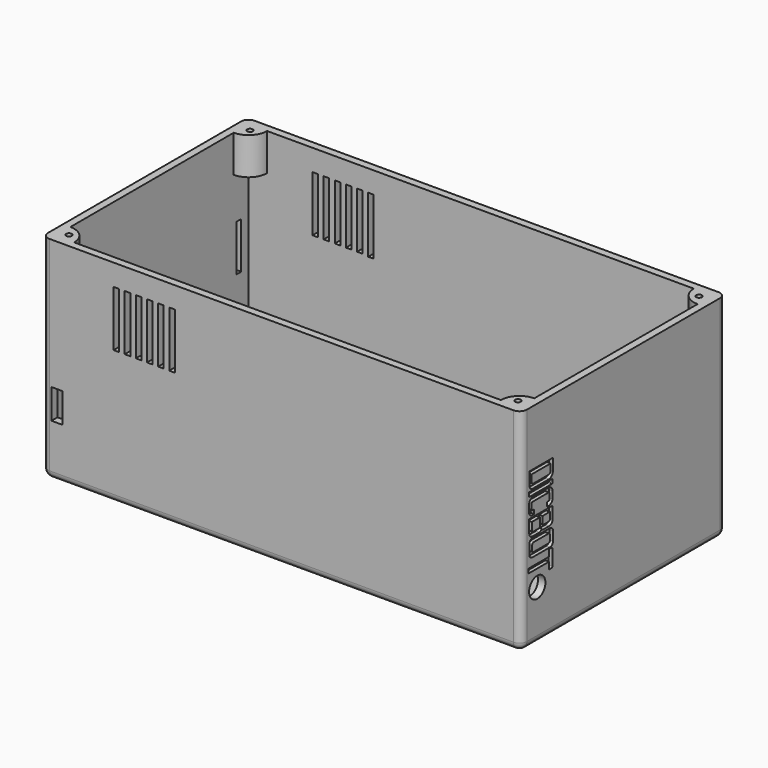
from build123d import *

# Parameters (mm, degrees)
SKETCH_W        = 250
SKETCH_H        = 130
PAD_DEPTH       = 110
THICKNESS_T     = 4
PAD017_DEPTH    = 16
SKETCH022_W     = 162
SKETCH022_H     = 92
POCKET_DEPTH    = 4
SKETCH023_R     = 1.5
PAD018_DEPTH    = 20
SKETCH024_R     = 1.5
POCKET004_DEPTH = 15
POCKET006_DEPTH = 2
SKETCH031_W     = 3
SKETCH031_H     = 30
SKETCH031_H_2   = 30.423321
POCKET008_DEPTH = 5
SKETCH032_W     = 3
SKETCH032_H     = 30
POCKET009_DEPTH = 5
POCKET010_DEPTH = 2
POCKET011_DEPTH = 2
SKETCH040_W     = 3
SKETCH040_H     = 25
POCKET015_DEPTH = 5
SKETCH041_R     = 5.5
POCKET016_DEPTH = 5
SKETCH042_W     = 6
SKETCH042_H     = 16
POCKET017_DEPTH = 4


with BuildPart() as part:
    # Sketch → Pad (new body)
    with BuildSketch(Plane.XY):
        Rectangle(SKETCH_W, SKETCH_H)
    extrude(amount=PAD_DEPTH)

    # Thickness
    thickness_openings = [part.faces().sort_by_distance(p)[0] for p in [
        (0, 0, 110),
    ]]
    offset(amount=THICKNESS_T, openings=thickness_openings)

    # Sketch021 (on Face5 of Thickness) → Pad017 (join)
    with BuildSketch(Plane.XY):
        Polygon((-125, -65), (72.5, -65), (72.5, -49), (67.5, -49), (67.5, -57.7), (-125, -57.7), align=None)
        Polygon((-125, 65), (72.5, 65), (72.5, 49), (67.5, 49), (67.5, 57.7), (-125, 57.7), align=None)
    extrude(amount=PAD017_DEPTH)

    # Sketch022 (on Face33 of Pad017) → Pocket (cut)
    with BuildSketch(Plane(origin=(0, 0, -4), x_dir=(1, 0, 0), z_dir=(0, 0, -1))):
        with Locations((-29.35158, -0.335244)):
            Rectangle(SKETCH022_W, SKETCH022_H)
    extrude(amount=-POCKET_DEPTH, mode=Mode.SUBTRACT)

    # Sketch023 (on Face6 of Pocket) → Pad018 (join)
    with BuildSketch(Plane.XY.offset(110)):
        with BuildLine():
            Line((125, -65), (115, -65))
            ThreePointArc((125, -55), (117.928932, -57.928932), (115, -65))
            Line((125, -65), (125, -55))
        make_face()
        with Locations((121, -61)):
            Circle(SKETCH023_R, mode=Mode.SUBTRACT)
        with BuildLine():
            Line((125, 65), (125, 55))
            ThreePointArc((115, 65), (117.928932, 57.928932), (125, 55))
            Line((125, 65), (115, 65))
        make_face()
        with Locations((121, 61)):
            Circle(SKETCH023_R, mode=Mode.SUBTRACT)
        with BuildLine():
            Line((-125, 65), (-115, 65))
            ThreePointArc((-125, 55), (-117.928932, 57.928932), (-115, 65))
            Line((-125, 65), (-125, 55))
        make_face()
        with Locations((-121, 61)):
            Circle(SKETCH023_R, mode=Mode.SUBTRACT)
        with BuildLine():
            Line((-125, -65), (-115, -65))
            ThreePointArc((-115, -65), (-117.928932, -57.928932), (-125, -55))
            Line((-125, -65), (-125, -55))
        make_face()
        with Locations((-121, -61)):
            Circle(SKETCH023_R, mode=Mode.SUBTRACT)
    extrude(amount=-PAD018_DEPTH)

    # Sketch024 (on Face2 of Pad018) → Pocket004 (cut)
    with BuildSketch(Plane.XY.offset(16)):
        with Locations((-100, 61.5)):
            Circle(SKETCH024_R)
        with Locations((47.5, 61.5)):
            Circle(SKETCH024_R)
        with Locations((-100, -61.5)):
            Circle(SKETCH024_R)
        with Locations((47.5, -61.5)):
            Circle(SKETCH024_R)
    extrude(amount=-POCKET004_DEPTH, mode=Mode.SUBTRACT)

    # Sketch029 (on Face47 of Pocket004) → Pocket006 (cut)
    with BuildSketch(Plane(origin=(0, 0, -4), x_dir=(1, 0, 0), z_dir=(0, 0, -1))):
        Polygon((110.986206, -52.371094), (110.986206, -54.950687), (89.020599, -54.950687), (89.020599, -52.292919), (97.541061, -52.292919), (97.541061, -37.284397), (103.012924, -37.284397), (103.012924, -52.371094), align=None)
        with BuildLine():
            Line((110.388367, -18.675339), (110.388367, -29.703456))
            add(Edge.make_bspline(
                [(110.388367, -29.703456), (110.238205, -32.012863), (106.282608, -32.67458), (104.313, -32.7242)],
                knots=[0, 0, 0, 0, 1, 1, 1, 1], degree=3))
            Line((104.313, -32.7242), (96.4457, -32.7242))
            add(Edge.make_bspline(
                [(96.4457, -32.7242), (94.127472, -32.582211), (92.032043, -31.922974), (90.207809, -29.713581)],
                knots=[0, 0, 0, 0, 1, 1, 1, 1], degree=3))
            Line((90.207809, -29.713581), (90.207809, -18.678934))
            add(Edge.make_bspline(
                [(96.7618, -15.6424), (92.885971, -15.769687), (90.865364, -17.303654), (90.207809, -18.678934)],
                knots=[0, 0, 0, 0, 1, 1, 1, 1], degree=3))
            Line((96.7618, -15.6424), (103.914186, -15.6424))
            add(Edge.make_bspline(
                [(110.388367, -18.675339), (108.822266, -15.913918), (105.375854, -15.970648), (103.914186, -15.6424)],
                knots=[0, 0, 0, 0, 1, 1, 1, 1], degree=3))
        make_face()
        with BuildLine():
            Line((104.117741, -30.550462), (96.798073, -30.550462))
            ThreePointArc((96.798073, -30.550462), (95.737413, -30.111122), (95.298073, -29.050462))
            Line((95.298073, -29.050462), (95.298073, -19.309789))
            ThreePointArc((95.298073, -19.309789), (95.737413, -18.249128), (96.798073, -17.809789))
            Line((96.798073, -17.809789), (103.848498, -17.809789))
            ThreePointArc((103.848498, -17.809789), (104.909158, -18.249128), (105.348498, -19.309789))
            Line((105.348498, -19.309789), (105.348498, -29.319705))
            ThreePointArc((105.348498, -29.319705), (104.988018, -30.189981), (104.117741, -30.550462))
        make_face(mode=Mode.SUBTRACT)
        with BuildLine():
            Line((100.093783, 2.206142), (100.093783, -10.852588))
            Line((100.093783, -10.852588), (105.196266, -10.852588))
            Line((105.196266, -10.852588), (105.196266, 3.599633))
            ThreePointArc((105.196266, 3.599633), (104.500278, 5.279897), (102.820014, 5.975885))
            Line((102.820014, 5.975885), (89.172363, 5.975885))
            Line((89.172363, 5.975885), (89.172363, 4.003325))
            Line((89.172363, 4.003325), (98.2966, 4.003325))
            ThreePointArc((98.2966, 4.003325), (99.5674, 3.476942), (100.093783, 2.206142))
        make_face()
        with BuildLine():
            add(Edge.make_bspline(
                [(91.8795, 10.0455), (88.368843, 10.361386), (86.254036, 11.466137), (86.1157, 13.137)],
                knots=[0, 0, 0, 0, 1, 1, 1, 1], degree=3))
            Line((91.8795, 10.0455), (106.79718, 10.0455))
            Line((106.79718, 10.0455), (106.79718, 27.1487))
            Line((106.79718, 27.1487), (89.9249, 27.1487))
            add(Edge.make_bspline(
                [(89.9249, 27.1487), (87.817001, 26.901638), (86.541161, 25.825199), (86.1157, 24.7171)],
                knots=[0, 0, 0, 0, 1, 1, 1, 1], degree=3))
            Line((86.1157, 24.7171), (86.1157, 13.137))
        make_face()
        with BuildLine():
            Line((92.240235, 25.264413), (101.685867, 25.264413))
            Line((101.685867, 25.264413), (101.685867, 12.074739))
            Line((101.685867, 12.074739), (92.240235, 12.074739))
            ThreePointArc((92.240235, 12.074739), (91.179574, 12.514079), (90.740235, 13.574739))
            Line((90.740235, 13.574739), (90.740235, 23.764413))
            ThreePointArc((90.740235, 23.764413), (91.179574, 24.825074), (92.240235, 25.264413))
        make_face(mode=Mode.SUBTRACT)
        with BuildLine():
            add(Edge.make_bspline(
                [(105.601852, 38.727879), (105.536949, 36.351532), (101.358208, 35.695629), (100.638, 35.747)],
                knots=[0, 0, 0, 0, 1, 1, 1, 1], degree=3))
            Line((105.601852, 38.727879), (100.524536, 38.727879))
            add(Edge.make_bspline(
                [(100.524536, 38.727879), (100.55722, 37.969818), (99.61937, 37.912354), (99.237007, 37.8542)],
                knots=[0, 0, 0, 0, 1, 1, 1, 1], degree=3))
            Line((99.237007, 37.8542), (92.871, 37.8542))
            add(Edge.make_bspline(
                [(92.871, 37.8542), (91.847961, 38.001991), (91.8168, 39.0069)],
                knots=[0, 0, 0, 1, 1, 1], degree=2))
            Line((91.8168, 39.0069), (91.8168, 41.9573))
            add(Edge.make_bspline(
                [(105.637184, 47.734299), (104.700012, 45.389896), (98.969673, 43.375134), (91.259422, 43.65519), (91.8168, 41.9573)],
                knots=[0, 0, 0, 0, 0.5, 1, 1, 1, 1], degree=3))
            Line((105.637184, 47.734299), (105.637184, 51.060986))
            Line((105.637184, 51.060986), (87.115326, 51.060986))
            Line((87.115326, 51.060986), (87.115326, 48.8833))
            Line((87.115326, 48.8833), (100.462, 48.8833))
            add(Edge.make_bspline(
                [(100.462, 48.8833), (100.141205, 46.88728), (96.496, 46.0585), (89.344315, 45.498123), (86.92276, 44.23391), (86.560577, 42.551044)],
                knots=[0, 0, 0, 0, 0.333333, 0.666667, 1, 1, 1, 1], degree=3))
            Line((86.560577, 42.551044), (86.560577, 38.480339))
            add(Edge.make_bspline(
                [(92.0327, 35.747), (88.221947, 36.078884), (86.857239, 37.020424), (86.560577, 38.480339)],
                knots=[0, 0, 0, 0, 1, 1, 1, 1], degree=3))
            Line((92.0327, 35.747), (100.638, 35.747))
        make_face()
    extrude(amount=-POCKET006_DEPTH, mode=Mode.SUBTRACT)

    # Sketch031 (on Face35 of Pocket006) → Pocket008 (cut)
    with BuildSketch(Plane(origin=(0, 69, 0), x_dir=(-1, 0, 0), z_dir=(0, 1, 0))):
        with Locations((65.026283, 83.480314)):
            Rectangle(SKETCH031_W, SKETCH031_H)
        with Locations((71.026283, 83.480314)):
            Rectangle(SKETCH031_W, SKETCH031_H)
        with Locations((77.026283, 83.480314)):
            Rectangle(SKETCH031_W, SKETCH031_H)
        with Locations((83.026283, 83.480314)):
            Rectangle(SKETCH031_W, SKETCH031_H)
        with Locations((89.026283, 83.480314)):
            Rectangle(SKETCH031_W, SKETCH031_H)
        with Locations((59.026283, 83.268653)):
            Rectangle(SKETCH031_W, SKETCH031_H_2)
    extrude(amount=-POCKET008_DEPTH, mode=Mode.SUBTRACT)

    # Sketch032 (on Face66 of Pocket008) → Pocket009 (cut)
    with BuildSketch(Plane.XZ.offset(69)):
        with Locations((-59.035263, 83.472971)):
            Rectangle(SKETCH032_W, SKETCH032_H)
        with Locations((-89.035263, 83.472971)):
            Rectangle(SKETCH032_W, SKETCH032_H)
        with Locations((-83.035263, 83.472971)):
            Rectangle(SKETCH032_W, SKETCH032_H)
        with Locations((-77.035263, 83.472971)):
            Rectangle(SKETCH032_W, SKETCH032_H)
        with Locations((-71.035263, 83.472971)):
            Rectangle(SKETCH032_W, SKETCH032_H)
        with Locations((-65.035263, 83.472971)):
            Rectangle(SKETCH032_W, SKETCH032_H)
    extrude(amount=-POCKET009_DEPTH, mode=Mode.SUBTRACT)

    # Sketch033 (on Face60 of Pocket009) → Pocket010 (cut)
    with BuildSketch(Plane.YZ.offset(129)):
        with BuildLine():
            add(Edge.make_bspline(
                [(-49.9628, 70.9402), (-47.902222, 71.418213), (-47.497246, 73.485985)],
                knots=[0, 0, 0, 1, 1, 1], degree=2))
            Line((-47.497246, 73.485985), (-47.497246, 80.025421))
            Line((-47.497246, 80.025421), (-63.388218, 80.025421))
            Line((-63.388218, 80.025421), (-63.388218, 73.519058))
            add(Edge.make_bspline(
                [(-63.388218, 73.519058), (-63.20314, 70.998398), (-60.9677, 70.9402)],
                knots=[0, 0, 0, 1, 1, 1], degree=2))
            Line((-60.9677, 70.9402), (-49.9628, 70.9402))
        make_face()
        with BuildLine():
            Line((-49.019693, 77.990843), (-61.858436, 77.990843))
            Line((-61.858436, 77.990843), (-61.858436, 74.659908))
            ThreePointArc((-61.858436, 74.659908), (-61.419096, 73.599248), (-60.358436, 73.159908))
            Line((-60.358436, 73.159908), (-50.519693, 73.159908))
            ThreePointArc((-50.519693, 73.159908), (-49.459032, 73.599248), (-49.019693, 74.659908))
            Line((-49.019693, 74.659908), (-49.019693, 77.990843))
        make_face(mode=Mode.SUBTRACT)
        with BuildLine():
            Line((-48.030528, 67.900872), (-63.420757, 67.900872))
            Line((-63.420757, 67.900872), (-63.420757, 70.197348))
            Line((-63.420757, 70.197348), (-48.061783, 70.197348))
            ThreePointArc((-48.061783, 70.197348), (-47.742461, 70.06508), (-47.610193, 69.745758))
            Line((-47.610193, 69.745758), (-47.610193, 68.321207))
            ThreePointArc((-47.610193, 68.321207), (-47.733306, 68.023986), (-48.030528, 67.900872))
        make_face()
        with BuildLine():
            Line((-47.611, 64.3295), (-47.611, 60.402881))
            add(Edge.make_bspline(
                [(-47.611, 60.402881), (-48.231422, 58.812729), (-49.998402, 58.4006)],
                knots=[0, 0, 0, 1, 1, 1], degree=2))
            Line((-49.998402, 58.4006), (-51.515476, 58.4006))
            Line((-51.515476, 58.4006), (-51.515476, 60.689899))
            Line((-51.515476, 60.689899), (-50.5162, 60.689899))
            add(Edge.make_bspline(
                [(-49.672951, 61.314571), (-49.730625, 60.686592), (-50.5162, 60.689899)],
                knots=[0, 0, 0, 1, 1, 1], degree=2))
            Line((-49.672951, 61.314571), (-49.672951, 63.99593))
            add(Edge.make_bspline(
                [(-49.672951, 63.99593), (-49.800396, 64.616211), (-50.243256, 64.739479), (-50.7106, 64.7357)],
                knots=[0, 0, 0, 0, 1, 1, 1, 1], degree=3))
            Line((-50.7106, 64.7357), (-61.1833, 64.7357))
            add(Edge.make_bspline(
                [(-61.1833, 64.7357), (-61.651531, 64.729492), (-61.747009, 64.418015), (-61.7338, 64.169)],
                knots=[0, 0, 0, 0, 1, 1, 1, 1], degree=3))
            Line((-61.7338, 64.169), (-61.7338, 61.2157))
            add(Edge.make_bspline(
                [(-61.7338, 61.2157), (-61.715904, 60.663582), (-61.0085, 60.6979)],
                knots=[0, 0, 0, 1, 1, 1], degree=2))
            Line((-61.0085, 60.6979), (-60.036449, 60.6979))
            Line((-60.036449, 60.6979), (-60.036449, 58.4268))
            Line((-60.036449, 58.4268), (-61.4899, 58.4268))
            add(Edge.make_bspline(
                [(-63.637081, 60.788292), (-63.273819, 58.735001), (-62.138622, 58.515331), (-61.4899, 58.4268)],
                knots=[0, 0, 0, 0, 1, 1, 1, 1], degree=3))
            Line((-63.637081, 60.788292), (-63.637081, 64.227898))
            add(Edge.make_bspline(
                [(-61.0707, 67.0474), (-63.195282, 66.695595), (-63.637081, 64.227898)],
                knots=[0, 0, 0, 1, 1, 1], degree=2))
            Line((-61.0707, 67.0474), (-49.9147, 67.0474))
            add(Edge.make_bspline(
                [(-47.611, 64.3295), (-47.931179, 66.465759), (-49.9147, 67.0474)],
                knots=[0, 0, 0, 1, 1, 1], degree=2))
        make_face()
        with BuildLine():
            Line((-47.589752, 50.6745), (-47.589752, 57.4268))
            Line((-47.589752, 57.4268), (-63.4252, 57.4268))
            Line((-63.4252, 57.4268), (-63.4252, 50.5808))
            add(Edge.make_bspline(
                [(-61.5544, 48.3244), (-63.188435, 48.563541), (-63.3298, 49.8285), (-63.4252, 50.5808)],
                knots=[0, 0, 0, 0, 1, 1, 1, 1], degree=3))
            Line((-61.5544, 48.3244), (-56.4986, 48.3244))
            add(Edge.make_bspline(
                [(-55.1673, 49.6274), (-55.286301, 48.642735), (-55.747547, 48.414154), (-56.4986, 48.3244)],
                knots=[0, 0, 0, 0, 1, 1, 1, 1], degree=3))
            add(Edge.make_bspline(
                [(-54.056973, 48.676239), (-54.828838, 48.681183), (-55.110661, 49.132645), (-55.1673, 49.6274)],
                knots=[0, 0, 0, 0, 1, 1, 1, 1], degree=3))
            Line((-54.056973, 48.676239), (-49.924198, 48.676239))
            add(Edge.make_bspline(
                [(-47.589752, 50.6745), (-48.050751, 48.845997), (-49.924198, 48.676239)],
                knots=[0, 0, 0, 1, 1, 1], degree=2))
        make_face()
        with BuildLine():
            Line((-56.152218, 55.331955), (-61.655904, 55.331955))
            Line((-61.655904, 55.331955), (-61.655904, 51.331698))
            ThreePointArc((-61.655904, 51.331698), (-61.370585, 50.642877), (-60.681764, 50.357558))
            Line((-60.681764, 50.357558), (-57.008797, 50.357558))
            ThreePointArc((-57.008797, 50.357558), (-56.403104, 50.608444), (-56.152218, 51.214137))
            Line((-56.152218, 51.214137), (-56.152218, 55.331955))
        make_face(mode=Mode.SUBTRACT)
        with BuildLine():
            Line((-49.504162, 55.260807), (-54.464252, 55.260807))
            Line((-54.464252, 55.260807), (-54.464252, 51.615778))
            ThreePointArc((-54.464252, 51.615778), (-54.24976, 51.097949), (-53.731931, 50.883457))
            Line((-53.731931, 50.883457), (-50.211606, 50.883457))
            ThreePointArc((-50.211606, 50.883457), (-49.711368, 51.090663), (-49.504162, 51.590901))
            Line((-49.504162, 51.590901), (-49.504162, 55.260807))
        make_face(mode=Mode.SUBTRACT)
        with BuildLine():
            Line((-49.520348, 47.470664), (-61.240083, 47.470664))
            ThreePointArc((-61.240083, 47.470664), (-62.753703, 46.843702), (-63.380665, 45.330082))
            Line((-63.380665, 45.330082), (-63.380665, 40.524108))
            ThreePointArc((-63.380665, 40.524108), (-62.753703, 39.010487), (-61.240083, 38.383525))
            Line((-61.240083, 38.383525), (-49.520348, 38.383525))
            ThreePointArc((-49.520348, 38.383525), (-48.006728, 39.010487), (-47.379766, 40.524108))
            Line((-47.379766, 40.524108), (-47.379766, 45.330082))
            ThreePointArc((-47.379766, 45.330082), (-48.006728, 46.843702), (-49.520348, 47.470664))
        make_face()
        with BuildLine():
            Line((-50.54297, 45.258108), (-60.396635, 45.258108))
            ThreePointArc((-60.396635, 45.258108), (-61.149173, 44.946397), (-61.460884, 44.193859))
            Line((-61.460884, 44.193859), (-61.460884, 41.688185))
            ThreePointArc((-61.460884, 41.688185), (-61.149173, 40.935648), (-60.396635, 40.623936))
            Line((-60.396635, 40.623936), (-50.54297, 40.623936))
            ThreePointArc((-50.54297, 40.623936), (-49.790433, 40.935648), (-49.478721, 41.688185))
            Line((-49.478721, 41.688185), (-49.478721, 44.193859))
            ThreePointArc((-49.478721, 44.193859), (-49.790433, 44.946397), (-50.54297, 45.258108))
        make_face(mode=Mode.SUBTRACT)
        with BuildLine():
            Line((-48.413399, 28.091967), (-50.055992, 28.091967))
            Line((-50.055992, 28.091967), (-50.055992, 31.795051))
            Line((-50.055992, 31.795051), (-63.799278, 31.795051))
            Line((-63.799278, 31.795051), (-63.799278, 34.147453))
            Line((-63.799278, 34.147453), (-49.99519, 34.147453))
            Line((-49.99519, 34.147453), (-49.99519, 37.780303))
            Line((-49.99519, 37.780303), (-48.469381, 37.780303))
            ThreePointArc((-48.469381, 37.780303), (-48.054072, 37.608276), (-47.882045, 37.192967))
            Line((-47.882045, 37.192967), (-47.882045, 28.623321))
            ThreePointArc((-47.882045, 28.623321), (-48.037675, 28.247597), (-48.413399, 28.091967))
        make_face()
    extrude(amount=-POCKET010_DEPTH, mode=Mode.SUBTRACT)

    # Sketch034 (on Face64 of Pocket010) → Pocket011 (cut)
    with BuildSketch(Plane(origin=(-129, 0, 0), x_dir=(0, -1, 0), z_dir=(-1, 0, 0))):
        with BuildLine():
            Line((51.741723, 35.7296), (51.741723, 37.9881))
            Line((51.741723, 37.9881), (49.8114, 37.9881))
            add(Edge.make_bspline(
                [(49.8114, 37.9881), (48.120445, 37.721756), (47.9992, 36.182)],
                knots=[0, 0, 0, 1, 1, 1], degree=2))
            Line((47.9992, 36.182), (47.9992, 31.7484))
            add(Edge.make_bspline(
                [(50.3216, 29.3959), (49.110603, 29.341265), (48.229427, 29.913574), (47.9992, 31.7484)],
                knots=[0, 0, 0, 0, 1, 1, 1, 1], degree=3))
            Line((50.3216, 29.3959), (61.7827, 29.3959))
            add(Edge.make_bspline(
                [(61.7827, 29.3959), (63.985447, 29.697958), (63.9845, 32.1707)],
                knots=[0, 0, 0, 1, 1, 1], degree=2))
            Line((63.9845, 32.1707), (63.9845, 36.0312))
            add(Edge.make_bspline(
                [(63.9845, 36.0312), (63.845207, 38.015667), (61.8732, 37.9917)],
                knots=[0, 0, 0, 1, 1, 1], degree=2))
            Line((61.8732, 37.9917), (60.3884, 38.004448))
            Line((60.3884, 38.004448), (60.3884, 35.863))
            add(Edge.make_bspline(
                [(61.9939, 35.3074), (61.736137, 35.925468), (60.3884, 35.863)],
                knots=[0, 0, 0, 1, 1, 1], degree=2))
            Line((61.9939, 35.3074), (61.9939, 32.3818))
            add(Edge.make_bspline(
                [(61.9939, 32.3818), (62.037052, 31.753765), (61.3303, 31.6579)],
                knots=[0, 0, 0, 1, 1, 1], degree=2))
            Line((61.3303, 31.6579), (50.8344, 31.6579))
            add(Edge.make_bspline(
                [(50.8344, 31.6579), (50.035316, 31.618824), (50.0559, 32.3029)],
                knots=[0, 0, 0, 1, 1, 1], degree=2))
            Line((50.0559, 32.3029), (50.0559, 35.2573))
            add(Edge.make_bspline(
                [(50.0559, 35.2573), (50.102051, 35.769543), (50.7439, 35.7296)],
                knots=[0, 0, 0, 1, 1, 1], degree=2))
            Line((50.7439, 35.7296), (51.741723, 35.7296))
        make_face()
        with BuildLine():
            Line((48.079598, 41.308634), (48.079598, 47.286651))
            Line((48.079598, 47.286651), (50.093641, 47.286651))
            Line((50.093641, 47.286651), (50.093641, 42.099707))
            ThreePointArc((50.093641, 42.099707), (50.333718, 41.520109), (50.913315, 41.280032))
            Line((50.913315, 41.280032), (55.095093, 41.280032))
            Line((55.095093, 41.280032), (55.095093, 46.912047))
            Line((55.095093, 46.912047), (57.032936, 46.912047))
            Line((57.032936, 46.912047), (57.032936, 41.232856))
            Line((57.032936, 41.232856), (61.295837, 41.232856))
            ThreePointArc((61.295837, 41.232856), (61.797109, 41.44049), (62.004743, 41.941763))
            Line((62.004743, 41.941763), (62.004743, 47.347744))
            Line((62.004743, 47.347744), (64.06944, 47.347744))
            Line((64.06944, 47.347744), (64.06944, 41.489738))
            ThreePointArc((64.06944, 41.489738), (63.380197, 39.825758), (61.716218, 39.136516))
            Line((61.716218, 39.136516), (50.251717, 39.136516))
            ThreePointArc((50.251717, 39.136516), (48.715797, 39.772714), (48.079598, 41.308634))
        make_face()
        Polygon((48.170124, 48.291885), (48.170124, 50.456032), (56.796131, 54.165817), (47.974324, 57.996246), (47.974324, 59.805901), (63.989743, 59.805901), (63.989743, 57.604156), (54.3531, 57.604156), (59.961693, 55.164185), (59.961693, 53.052922), (54.916546, 50.724315), (64.10991, 50.724315), (64.10991, 48.291885), align=None)
        with BuildLine():
            Line((61.800251, 60.766504), (50.682121, 60.766504))
            ThreePointArc((50.682121, 60.766504), (48.96374, 61.478281), (48.251964, 63.196661))
            Line((48.251964, 63.196661), (48.251964, 67.413841))
            ThreePointArc((48.251964, 67.413841), (48.96374, 69.132221), (50.682121, 69.843998))
            Line((50.682121, 69.843998), (61.800251, 69.843998))
            ThreePointArc((61.800251, 69.843998), (63.518631, 69.132221), (64.230407, 67.413841))
            Line((64.230407, 67.413841), (64.230407, 63.196661))
            ThreePointArc((64.230407, 63.196661), (63.518631, 61.478281), (61.800251, 60.766504))
        make_face()
        with BuildLine():
            Line((51.344255, 62.909959), (60.904402, 62.909959))
            ThreePointArc((60.904402, 62.909959), (61.747246, 63.259077), (62.096364, 64.101921))
            Line((62.096364, 64.101921), (62.096364, 66.236712))
            ThreePointArc((62.096364, 66.236712), (61.747246, 67.079556), (60.904402, 67.428673))
            Line((60.904402, 67.428673), (51.344255, 67.428673))
            ThreePointArc((51.344255, 67.428673), (50.501411, 67.079556), (50.152294, 66.236712))
            Line((50.152294, 66.236712), (50.152294, 64.101921))
            ThreePointArc((50.152294, 64.101921), (50.501411, 63.259077), (51.344255, 62.909959))
        make_face(mode=Mode.SUBTRACT)
        with BuildLine():
            Line((50.774013, 78.137944), (51.079037, 78.137944))
            Line((51.079037, 78.137944), (51.079037, 80.073317))
            Line((51.079037, 80.073317), (50.260945, 80.073317))
            ThreePointArc((50.260945, 80.073317), (48.96287, 79.535636), (48.425189, 78.23756))
            Line((48.425189, 78.23756), (48.425189, 73.522036))
            ThreePointArc((48.425189, 73.522036), (49.041559, 72.033988), (50.529608, 71.417618))
            Line((50.529608, 71.417618), (54.930172, 71.417618))
            ThreePointArc((54.930172, 71.417618), (56.625753, 72.11995), (57.328085, 73.815531))
            Line((57.328085, 73.815531), (57.328085, 77.103174))
            ThreePointArc((57.328085, 77.103174), (57.629545, 77.830961), (58.357332, 78.13242))
            Line((58.357332, 78.13242), (61.511779, 78.13242))
            ThreePointArc((61.511779, 78.13242), (62.160982, 77.863511), (62.429891, 77.214308))
            Line((62.429891, 77.214308), (62.429891, 73.821422))
            ThreePointArc((62.429891, 73.821422), (62.296113, 73.498455), (61.973146, 73.364677))
            Line((61.973146, 73.364677), (61.5027, 73.364677))
            Line((61.5027, 73.364677), (61.5027, 71.358934))
            Line((61.5027, 71.358934), (62.713226, 71.358934))
            ThreePointArc((62.713226, 71.358934), (63.76257, 71.793587), (64.197223, 72.842931))
            Line((64.197223, 72.842931), (64.197223, 78.091599))
            ThreePointArc((64.197223, 78.091599), (63.569104, 79.608011), (62.052692, 80.23613))
            Line((62.052692, 80.23613), (57.373032, 80.23613))
            ThreePointArc((57.373032, 80.23613), (55.961974, 79.651651), (55.377495, 78.240593))
            Line((55.377495, 78.240593), (55.377495, 74.235864))
            ThreePointArc((55.377495, 74.235864), (55.186508, 73.774782), (54.725426, 73.583795))
            Line((54.725426, 73.583795), (51.24661, 73.583795))
            ThreePointArc((51.24661, 73.583795), (50.611948, 73.846681), (50.349063, 74.481342))
            Line((50.349063, 74.481342), (50.349063, 77.712994))
            ThreePointArc((50.349063, 77.712994), (50.473528, 78.013479), (50.774013, 78.137944))
        make_face()
    extrude(amount=-POCKET011_DEPTH, mode=Mode.SUBTRACT)

    # Sketch040 (on Face64 of Pocket011) → Pocket015 (cut)
    with BuildSketch(Plane(origin=(-129, 0, 0), x_dir=(0, -1, 0), z_dir=(-1, 0, 0))):
        with Locations((-58.5, 54.5)):
            Rectangle(SKETCH040_W, SKETCH040_H)
    extrude(amount=-POCKET015_DEPTH, mode=Mode.SUBTRACT)

    # Sketch041 (on Face64 of Pocket015) → Pocket016 (cut)
    with BuildSketch(Plane.YZ.offset(129)):
        with Locations((-58, 22.913248)):
            Circle(SKETCH041_R)
    extrude(amount=-POCKET016_DEPTH, mode=Mode.SUBTRACT)

    # Sketch042 (on Face71 of Pocket016) → Pocket017 (cut)
    with BuildSketch(Plane.XZ.offset(69)):
        with Locations((-121, 32.06966)):
            Rectangle(SKETCH042_W, SKETCH042_H)
    extrude(amount=-POCKET017_DEPTH, mode=Mode.SUBTRACT)


solid = part.part
